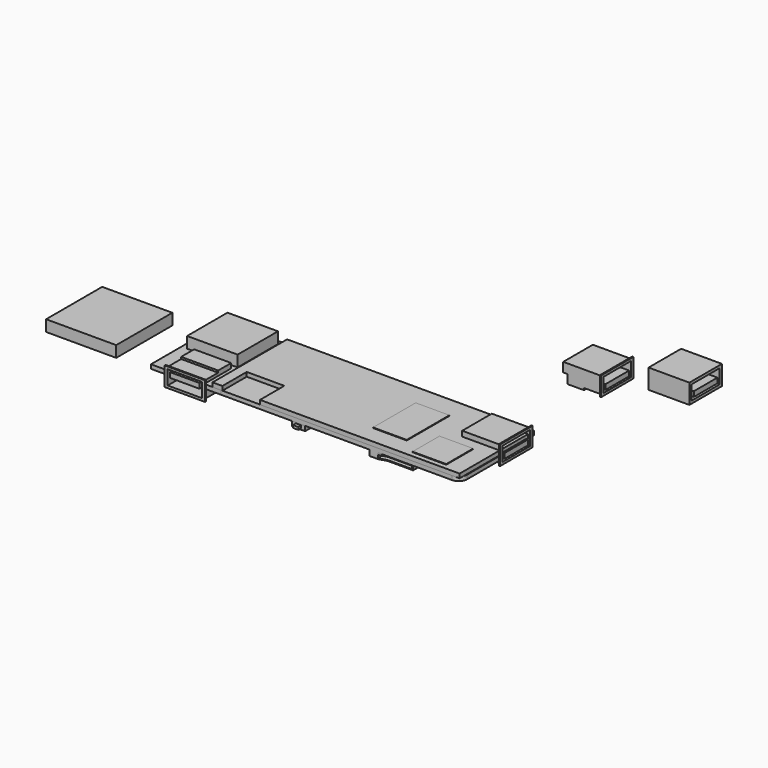
from build123d import *

# Parameters (mm, degrees)
F1_W           = 6.2
F1_H           = 13.2
F1_W_2         = 5.8
F1_W_3         = 1.6
F2_DEPTH       = 3.35
F3_DEPTH       = 3.15
F4_DEPTH       = 2.45
F5_DEPTH       = 3.85
F5_DEPTH_BACK  = 2.95
F6_W           = 12.2
F6_H           = 5.1
F6_W_2         = 10.5
F6_H_2         = 1.8
F7_DEPTH       = 9
F0_W           = 13.5
F0_H           = 7.5
F0_W_2         = 1
F0_H_2         = 12
F0_W_3         = 11
F0_W_4         = 1.9
F0_H_3         = 0.3
F0_W_5         = 8.2
F0_H_4         = 8.47
F8_DEPTH       = 1.45
F9_DEPTH       = 1.7
F10_DEPTH      = 2.6
F11_DEPTH      = 3.35
F12_START      = -1.95
F0_H_5         = 1
F12_DEPTH      = 0.9
F13_START      = -1.45
F13_DEPTH      = 2
F14_W          = 8.6
F14_H          = 1
F14_W_2        = 2.9
F15_DEPTH      = 11
F15_DEPTH_BACK = 1
F16_ANGLE      = 90
F17_ANGLE      = 180
F19_W          = 18
F19_H          = 18
F20_DEPTH      = 1.45
F21_DEPTH      = 4
F23_W          = 14.55
F23_H          = 14.5
F24_DEPTH      = 7
F25_W          = 12.5
F25_H          = 5.12
F25_W_2        = 10.5
F25_H_2        = 1.8
F26_DEPTH      = 9
F29_DEPTH      = 1.5
F28_W          = 25
F28_H          = 25
F28_R          = 1
F30_DEPTH      = 4
F31_DEPTH      = 4


with BuildPart() as f2:
    # F1 (on Top) → F2 (new body)
    with BuildSketch(Plane.XY):
        with Locations((85.2, 7.85)):
            Rectangle(F1_W, F1_H)
        with Locations((79.2, 7.85)):
            Rectangle(F1_W_2, F1_H)
        with Locations((75.5, 7.85)):
            Rectangle(F1_W_3, F1_H)
    extrude(amount=F2_DEPTH)

    # F1 (on Top) → F3 (join)
    with BuildSketch(Plane.XY):
        with Locations((79.2, 7.85)):
            Rectangle(F1_W_2, F1_H)
    extrude(amount=-F3_DEPTH)

    # F1 (on Top) → F4 (join)
    with BuildSketch(Plane.XY):
        with Locations((85.2, 7.85)):
            Rectangle(F1_W, F1_H)
    extrude(amount=-F4_DEPTH)

    # F1 (on Top) → F5 (join, two sides)
    with BuildSketch(Plane.XY) as f5_sk:
        Polygon((88.3, 14.45), (88.3, 1.25), (88.3, 0.65), (88.7, 0.65), (88.7, 15.05), (88.3, 15.05), align=None)
    extrude(amount=F5_DEPTH)
    extrude(f5_sk.sketch, amount=-F5_DEPTH_BACK)

    # F6 (on face) → F7 (cut)
    with BuildSketch(Plane.YZ.offset(88.7)):
        with Locations((7.85, 0.45)):
            Rectangle(F6_W, F6_H)
        with Locations((7.85, -0.55)):
            Rectangle(F6_W_2, F6_H_2, mode=Mode.SUBTRACT)
    extrude(amount=-F7_DEPTH, mode=Mode.SUBTRACT)


with BuildPart() as f8:
    # F0 (on Top) → F8 (new body)
    with BuildSketch(Plane.XY):
        with BuildLine():
            Line((0, 13.55), (0, 0))
            Line((0, 0), (0, -13.55))
            Line((0, -13.55), (3, -16.55))
            Line((3, -16.55), (29.4, -16.55))
            Line((29.4, -16.55), (29.4, -16.25))
            Line((29.4, -16.25), (28, -16.25))
            Line((28, -16.25), (28, -13.75))
            Line((28, -13.75), (32.7, -13.75))
            Line((32.7, -13.75), (32.7, -16.25))
            Line((32.7, -16.25), (31.3, -16.25))
            Line((31.3, -16.25), (31.3, -16.55))
            Line((31.3, -16.55), (55.9, -16.55))
            Line((55.9, -16.55), (55.9, -10.22))
            Line((55.9, -10.22), (52.1, -10.22))
            Line((52.1, -10.22), (52.1, -2.5494949366))
            Line((52.1, -2.5494949366), (44.1005050634, -10.5489898732))
            Line((44.1005050634, -10.5489898732), (34.2010101268, -0.6494949366))
            Line((34.2010101268, -0.6494949366), (44.1005050634, 9.25))
            Line((44.1005050634, 9.25), (52.1, 1.2505050634))
            Line((52.1, 1.2505050634), (52.1, 8.78))
            Line((52.1, 8.78), (64.1, 8.78))
            Line((64.1, 8.78), (64.1, -1.75))
            Line((64.1, -1.75), (70.8, -1.75))
            Line((70.8, -1.75), (70.8, -2.75))
            Line((70.8, -2.75), (81.8, -2.75))
            Line((81.8, -2.75), (81.8, -14.75))
            Line((81.8, -14.75), (70.8, -14.75))
            Line((70.8, -14.75), (70.8, -15.75))
            Line((70.8, -15.75), (61.8, -15.75))
            Line((61.8, -15.75), (58.9, -16.55))
            Line((58.9, -16.55), (85.3, -16.55))
            ThreePointArc((85.3, -16.55), (87.4213203436, -15.6713203436), (88.3, -13.55))
            Line((88.3, -13.55), (88.3, 0))
            Line((88.3, 0), (88.3, 1.25))
            Line((88.3, 1.25), (76.2, 1.25))
            Line((76.2, 1.25), (76.2, 14.45))
            Line((76.2, 14.45), (84.8, 14.45))
            Line((84.8, 14.45), (84.8, 16.55))
            Line((84.8, 16.55), (3, 16.55))
            Line((3, 16.55), (0, 13.55))
        make_face()
        with Locations((18.85, -10.3)):
            Rectangle(F0_W, F0_H, mode=Mode.SUBTRACT)
        with Locations((18.85, 8.8)):
            Rectangle(F0_W, F0_H, mode=Mode.SUBTRACT)
        Polygon((52.1, -10.22), (55.9, -10.22), (55.9, -1.75), (64.1, -1.75), (64.1, 8.78), (52.1, 8.78), (52.1, 1.2505050634), (54, -0.6494949366), (52.1, -2.5494949366), align=None)
        with Locations((70.3, -8.75)):
            Rectangle(F0_W_2, F0_H_2)
        with Locations((76.3, -8.75)):
            Rectangle(F0_W_3, F0_H_2)
        Polygon((44.1005050634, -10.5489898732), (52.1, -2.5494949366), (52.1, 1.2505050634), (44.1005050634, 9.25), (34.2010101268, -0.6494949366), align=None)
        Polygon((52.1, 1.2505050634), (52.1, -2.5494949366), (54, -0.6494949366), align=None)
        with Locations((18.85, -10.3)):
            Rectangle(F0_W, F0_H)
        with Locations((18.85, 8.8)):
            Rectangle(F0_W, F0_H)
        Polygon((28, -16.25), (29.4, -16.25), (31.3, -16.25), (32.7, -16.25), (32.7, -13.75), (28, -13.75), align=None)
        with Locations((30.35, -16.4)):
            Rectangle(F0_W_4, F0_H_3)
        Polygon((55.9, -10.22), (55.9, -16.55), (58.9, -16.55), (61.8, -15.75), (70.8, -15.75), (70.8, -14.75), (69.8, -14.75), (69.8, -2.75), (70.8, -2.75), (70.8, -1.75), (64.1, -1.75), (64.1, -10.22), align=None)
        with Locations((60, -5.985)):
            Rectangle(F0_W_5, F0_H_4)
    extrude(amount=-F8_DEPTH)

    # F0 (on Top) → F9 (join)
    with BuildSketch(Plane.XY):
        Polygon((52.1, -10.22), (55.9, -10.22), (55.9, -1.75), (64.1, -1.75), (64.1, 8.78), (52.1, 8.78), (52.1, 1.2505050634), (54, -0.6494949366), (52.1, -2.5494949366), align=None)
        with Locations((70.3, -8.75)):
            Rectangle(F0_W_2, F0_H_2)
        with Locations((76.3, -8.75)):
            Rectangle(F0_W_3, F0_H_2)
        Polygon((52.1, 1.2505050634), (52.1, -2.5494949366), (54, -0.6494949366), align=None)
        with Locations((60, -5.985)):
            Rectangle(F0_W_5, F0_H_4)
    extrude(amount=F9_DEPTH)

    # F0 (on Top) → F10 (join)
    with BuildSketch(Plane.XY):
        Polygon((44.1005050634, -10.5489898732), (52.1, -2.5494949366), (52.1, 1.2505050634), (44.1005050634, 9.25), (34.2010101268, -0.6494949366), align=None)
        Polygon((52.1, 1.2505050634), (52.1, -2.5494949366), (54, -0.6494949366), align=None)
        with Locations((18.85, 8.8)):
            Rectangle(F0_W, F0_H)
        with Locations((18.85, -10.3)):
            Rectangle(F0_W, F0_H)
    extrude(amount=-F10_DEPTH)

    # F0 (on Top) → F11 (join)
    with BuildSketch(Plane.XY):
        Polygon((28, -16.25), (29.4, -16.25), (31.3, -16.25), (32.7, -16.25), (32.7, -13.75), (28, -13.75), align=None)
    extrude(amount=-F11_DEPTH)

    # F0 (on Top) → F12 (join)
    with BuildSketch(Plane.XY.offset(F12_START)):
        with Locations((30.35, -16.4)):
            Rectangle(F0_W_4, F0_H_3)
        with Locations((30.35, -17.05)):
            Rectangle(F0_W_4, F0_H_5)
    extrude(amount=-F12_DEPTH)

    # F0 (on Top) → F13 (join)
    with BuildSketch(Plane.XY.offset(F13_START)):
        Polygon((55.9, -10.22), (55.9, -16.55), (58.9, -16.55), (61.8, -15.75), (70.8, -15.75), (70.8, -14.75), (69.8, -14.75), (69.8, -2.75), (70.8, -2.75), (70.8, -1.75), (64.1, -1.75), (64.1, -10.22), align=None)
        with Locations((60, -5.985)):
            Rectangle(F0_W_5, F0_H_4)
        with Locations((70.3, -8.75)):
            Rectangle(F0_W_2, F0_H_2)
    extrude(amount=-F13_DEPTH)

    # F14 (on face) → F15 (cut, two sides)
    with BuildSketch(Plane.XZ.offset(15.75)) as f15_sk:
        with Locations((66.1, -2.65)):
            Rectangle(F14_W, F14_H)
        with Locations((60.35, -2.65)):
            Rectangle(F14_W_2, F14_H)
    extrude(amount=-F15_DEPTH, mode=Mode.SUBTRACT)
    extrude(f15_sk.sketch, amount=F15_DEPTH_BACK, mode=Mode.SUBTRACT)


with BuildPart() as f16_1:
    # F16: copy of F2
    add(f2.part.rotate(Axis((88.7, 0.65, 0.45), (0, 0, -1)), F16_ANGLE))


with BuildPart() as f16_1_1:
    # F17: moved
    add(f16_1.part.rotate(Axis((89.3, 13.85, 0), (0, 1, 0)), F17_ANGLE))


with BuildPart() as f16_1_2:
    # F18: moved
    add(f16_1_1.part.moved(Location((-92.3, -17.6, -1.45))))


with BuildPart() as f20:
    # F19 (on Top) → F20 (new body)
    with BuildSketch(Plane.XY):
        Polygon((0, 13.55), (3, 16.55), (-22, 16.55), (-22, -16.55), (-16.2, -16.55), (-16.2, -10.35), (-16.2, -4.55), (-3, -4.55), (-3, -10.35), (-3, -16.55), (3, -16.55), (0, -13.55), align=None)
        with Locations((-11, 6.05)):
            Rectangle(F19_W, F19_H, mode=Mode.SUBTRACT)
        with Locations((-11, 6.05)):
            Rectangle(F19_W, F19_H)
    extrude(amount=-F20_DEPTH)


with BuildPart() as f21:
    # F19 (on Top) → F21 (new body)
    with BuildSketch(Plane.XY):
        with Locations((-11, 6.05)):
            Rectangle(F19_W, F19_H)
    extrude(amount=F21_DEPTH)


with BuildPart() as f22_1:
    # F22: copy of F2
    add(f2.part.moved(Location((20, 20, 20))))


with BuildPart() as f24:
    # F23 (on Top) → F24 (new body)
    with BuildSketch(Plane.XY):
        with Locations((103.062142683, 65.1640551686)):
            Rectangle(F23_W, F23_H)
    extrude(amount=F24_DEPTH)

    # F25 (on face) → F26 (cut)
    with BuildSketch(Plane.YZ.offset(110.337142683)):
        with Locations((65.1640551686, 3.5)):
            Rectangle(F25_W, F25_H)
        with Locations((65.1640551686, 2.6)):
            Rectangle(F25_W_2, F25_H_2, mode=Mode.SUBTRACT)
    extrude(amount=-F26_DEPTH, mode=Mode.SUBTRACT)


with BuildPart() as f27_1:
    # F27: copy of F8
    add(f8.part)


with BuildPart() as f29:
    # F28 (on Top) → F29 (new body)
    with BuildSketch(Plane.XY):
        Polygon((0, 16.6), (0, 0), (0, -16.6), (3.5, -16.6), (3.5, -5.76), (16.91, -5.76), (16.91, -16.6), (88.05, -16.6), (88.05, 16.6), align=None)
    extrude(amount=F29_DEPTH)


with BuildPart() as f30:
    # F28 (on Top) → F30 (new body)
    with BuildSketch(Plane.XY):
        with Locations((-44.4495633245, -7.0897687227)):
            Rectangle(F28_W, F28_H)
        with Locations((-44.4495633245, -7.0897687227)):
            Circle(F28_R, mode=Mode.SUBTRACT)
    extrude(amount=F30_DEPTH)

    # F28 (on Top) → F31 (join)
    with BuildSketch(Plane.XY):
        with Locations((-44.4495633245, -7.0897687227)):
            Circle(F28_R)
    extrude(amount=F31_DEPTH)


solid = Compound([f2.part, f8.part, f16_1_2.part, f20.part, f21.part, f22_1.part, f24.part, f27_1.part, f29.part, f30.part])
